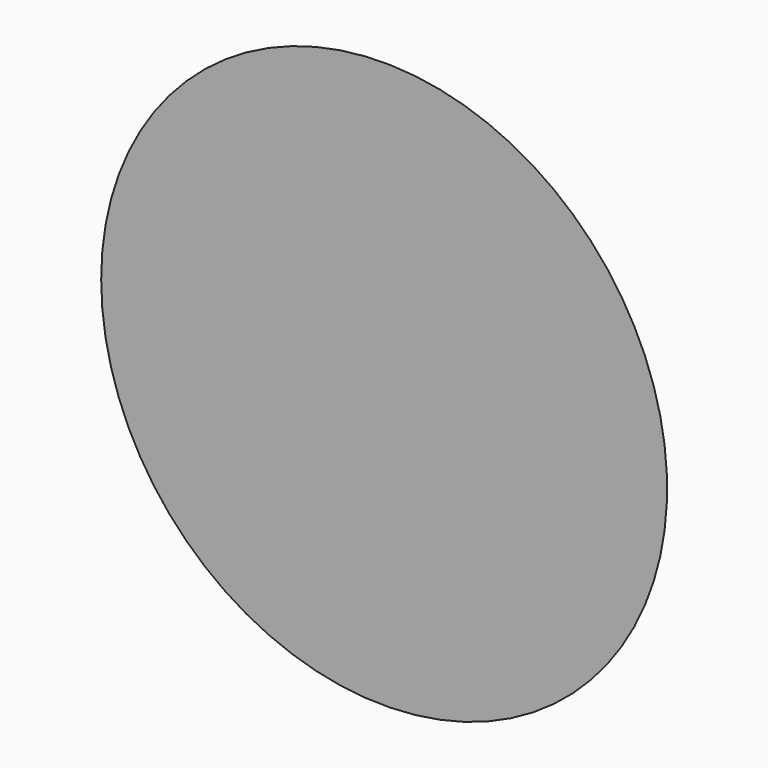
from build123d import *

# Parameters (mm, degrees)
F2_T = -2.54


with BuildPart() as f1:
    # F0 (on Top) → F1 (revolve)
    with BuildSketch(Plane.XY):
        with BuildLine():
            Line((-112.6135736704, -75.0782261945), (-112.6135736704, -64.1206726432))
            add(Edge.make_bspline(
                [(-112.6135736704, -64.1206726432), (-112.6135736704, -68.9606034958), (-124.2735377667, -61.4377880296), (-136.7016329212, -66.2353577222), (-151.4210721082, -69.2386211541), (-158.231526337, -73.7693606689), (-159.8449316522, -75.0782261944)],
                knots=[0, 0, 0, 0, 0.0659852062, 0.1478925897, 0.2398178942, 0.2707323388, 0.2707323388, 0.2707323388, 0.2707323388], degree=3))
            Line((-159.8449316521, -75.0782261945), (-148.872256541, -75.0782261945))
            Line((-148.872256541, -75.0782261945), (-112.6135736704, -75.0782261945))
        make_face()
    revolve(axis=Axis((-112.6135736704, -111.4286622033, 0), (0, -1, 0)))

    # F2
    f2_openings = [f1.faces().sort_by_distance(p)[0] for p in [
        (-90.525806, -65.169487, 0),
    ]]
    offset(amount=F2_T, openings=f2_openings)


solid = f1.part
